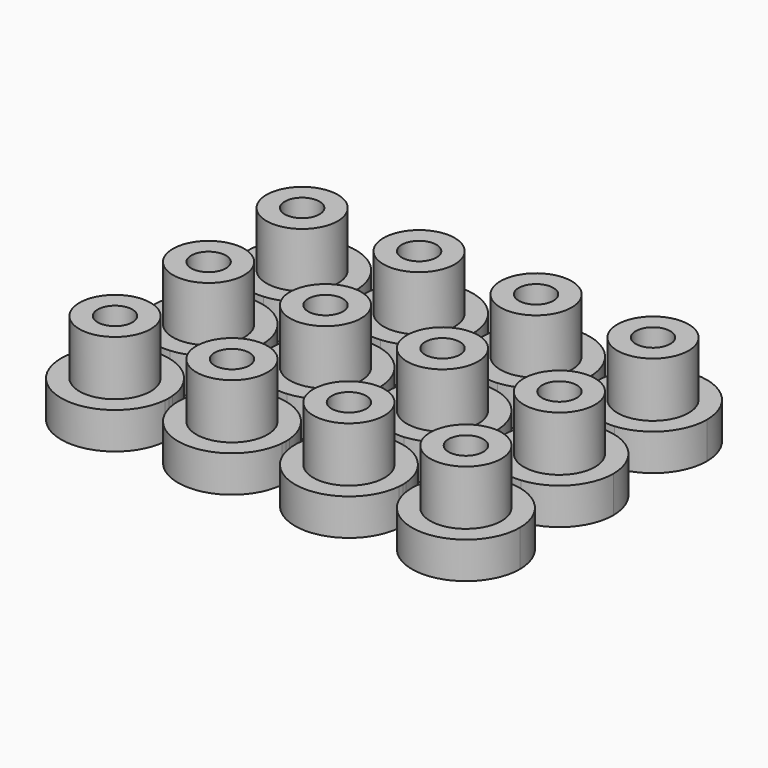
from build123d import *

# Parameters (mm, degrees)
F0_R     = 1.95
F0_R_2   = 0.95
F1_DEPTH = 5
F2_DEPTH = 2
F3_DEPTH = 0.5


with BuildPart() as f1:
    # F0 (on Top) → F1 (new body)
    with BuildSketch(Plane.XY):
        with Locations((-49.0494482219, 28.152640909)):
            Circle(F0_R)
        with Locations((-49.0494482219, 28.152640909)):
            Circle(F0_R_2, mode=Mode.SUBTRACT)
    extrude(amount=F1_DEPTH)

    # F0 (on Top) → F2 (join)
    with BuildSketch(Plane.XY):
        with BuildLine():
            ThreePointArc((-46.1094475541, 27.9099557766), (-46.1019491151, 28.0311953861), (-46.0994482219, 28.152640909))
            ThreePointArc((-46.0994482219, 28.152640909), (-46.1019491151, 28.2740864318), (-46.1094475541, 28.3953260413))
            ThreePointArc((-46.1094475541, 28.3953260413), (-46.9616557996, 30.2367768933), (-48.8016100079, 31.0922116633))
            ThreePointArc((-48.8016100079, 31.0922116633), (-49.0494482219, 31.102640909), (-49.297286436, 31.0922116633))
            ThreePointArc((-49.297286436, 31.0922116633), (-51.1335842063, 26.0648484867), (-46.1094475541, 27.9099557766))
        make_face()
        with Locations((-49.0494482219, 28.152640909)):
            Circle(F0_R, mode=Mode.SUBTRACT)
        with Locations((-49.0494482219, 28.152640909)):
            Circle(F0_R_2)
    extrude(amount=F2_DEPTH)



with BuildPart() as f1b:
    # F0 (on Top) → F1, piece 2 (new body)
    with BuildSketch(Plane.XY):
        with Locations((-42.6494482219, 28.152640909)):
            Circle(F0_R)
        with Locations((-42.6494482219, 28.152640909)):
            Circle(F0_R_2, mode=Mode.SUBTRACT)
    extrude(amount=F1_DEPTH)

    # F0 (on Top) → F2, piece 6 (join)
    with BuildSketch(Plane.XY):
        with BuildLine():
            ThreePointArc((-42.897286436, 31.0922116633), (-44.7372406442, 30.2367768933), (-45.5894488897, 28.3953260413))
            ThreePointArc((-45.5894488897, 28.3953260413), (-45.5994482219, 28.152640909), (-45.5894488897, 27.9099557766))
            ThreePointArc((-45.5894488897, 27.9099557766), (-42.6494482219, 25.202640909), (-39.7094475541, 27.9099557766))
            ThreePointArc((-39.7094475541, 27.9099557766), (-39.7019491151, 28.0311953861), (-39.6994482219, 28.152640909))
            ThreePointArc((-39.6994482219, 28.152640909), (-39.7019491151, 28.2740864318), (-39.7094475541, 28.3953260413))
            ThreePointArc((-39.7094475541, 28.3953260413), (-40.5616557996, 30.2367768933), (-42.4016100079, 31.0922116633))
            ThreePointArc((-42.4016100079, 31.0922116633), (-42.6494482219, 31.102640909), (-42.897286436, 31.0922116633))
        make_face()
        with Locations((-42.6494482219, 28.152640909)):
            Circle(F0_R, mode=Mode.SUBTRACT)
        with Locations((-42.6494482219, 28.152640909)):
            Circle(F0_R_2)
    extrude(amount=F2_DEPTH)


with BuildPart() as f1c:
    # F0 (on Top) → F1, piece 3 (new body)
    with BuildSketch(Plane.XY):
        with Locations((-36.2494482219, 28.152640909)):
            Circle(F0_R)
        with Locations((-36.2494482219, 28.152640909)):
            Circle(F0_R_2, mode=Mode.SUBTRACT)
    extrude(amount=F1_DEPTH)

    # F0 (on Top) → F2, piece 7 (join)
    with BuildSketch(Plane.XY):
        with BuildLine():
            ThreePointArc((-39.1894488897, 28.3953260413), (-39.1994482219, 28.152640909), (-39.1894488897, 27.9099557766))
            ThreePointArc((-39.1894488897, 27.9099557766), (-36.2494482219, 25.202640909), (-33.3094475541, 27.9099557766))
            ThreePointArc((-33.3094475541, 27.9099557766), (-33.3019491151, 28.0311953861), (-33.2994482219, 28.152640909))
            ThreePointArc((-33.2994482219, 28.152640909), (-33.3019491151, 28.2740864318), (-33.3094475541, 28.3953260413))
            ThreePointArc((-33.3094475541, 28.3953260413), (-34.1616557996, 30.2367768933), (-36.0016100079, 31.0922116633))
            ThreePointArc((-36.0016100079, 31.0922116633), (-36.2494482219, 31.102640909), (-36.497286436, 31.0922116633))
            ThreePointArc((-36.497286436, 31.0922116633), (-38.3372406442, 30.2367768933), (-39.1894488897, 28.3953260413))
        make_face()
        with Locations((-36.2494482219, 28.152640909)):
            Circle(F0_R, mode=Mode.SUBTRACT)
        with Locations((-36.2494482219, 28.152640909)):
            Circle(F0_R_2)
    extrude(amount=F2_DEPTH)


with BuildPart() as f1d:
    # F0 (on Top) → F1, piece 4 (new body)
    with BuildSketch(Plane.XY):
        with Locations((-49.0494482219, 34.552640909)):
            Circle(F0_R)
        with Locations((-49.0494482219, 34.552640909)):
            Circle(F0_R_2, mode=Mode.SUBTRACT)
    extrude(amount=F1_DEPTH)

    # F0 (on Top) → F2, piece 2 (join)
    with BuildSketch(Plane.XY):
        with BuildLine():
            ThreePointArc((-49.297286436, 31.6130701546), (-49.0494482219, 31.602640909), (-48.8016100079, 31.6130701546))
            ThreePointArc((-48.8016100079, 31.6130701546), (-46.9616557996, 32.4685049246), (-46.1094475541, 34.3099557766))
            ThreePointArc((-46.1094475541, 34.3099557766), (-46.1019491151, 34.4311953861), (-46.0994482219, 34.552640909))
            ThreePointArc((-46.0994482219, 34.552640909), (-46.1019491151, 34.6740864318), (-46.1094475541, 34.7953260413))
            ThreePointArc((-46.1094475541, 34.7953260413), (-46.9616557996, 36.6367768933), (-48.8016100079, 37.4922116633))
            ThreePointArc((-48.8016100079, 37.4922116633), (-49.0494482219, 37.502640909), (-49.297286436, 37.4922116633))
            ThreePointArc((-49.297286436, 37.4922116633), (-51.9994482219, 34.552640909), (-49.297286436, 31.6130701546))
        make_face()
        with Locations((-49.0494482219, 34.552640909)):
            Circle(F0_R, mode=Mode.SUBTRACT)
        with Locations((-49.0494482219, 34.552640909)):
            Circle(F0_R_2)
    extrude(amount=F2_DEPTH)


with BuildPart() as f1e:
    # F0 (on Top) → F1, piece 5 (new body)
    with BuildSketch(Plane.XY):
        with Locations((-49.0494482219, 40.952640909)):
            Circle(F0_R)
        with Locations((-49.0494482219, 40.952640909)):
            Circle(F0_R_2, mode=Mode.SUBTRACT)
    extrude(amount=F1_DEPTH)

    # F0 (on Top) → F2, piece 3 (join)
    with BuildSketch(Plane.XY):
        with BuildLine():
            ThreePointArc((-46.1094475541, 41.1953260413), (-51.1335842063, 43.0404333313), (-49.297286436, 38.0130701546))
            ThreePointArc((-49.297286436, 38.0130701546), (-49.0494482219, 38.002640909), (-48.8016100079, 38.0130701546))
            ThreePointArc((-48.8016100079, 38.0130701546), (-46.9616557996, 38.8685049246), (-46.1094475541, 40.7099557766))
            ThreePointArc((-46.1094475541, 40.7099557766), (-46.1019491151, 40.8311953861), (-46.0994482219, 40.952640909))
            ThreePointArc((-46.0994482219, 40.952640909), (-46.1019491151, 41.0740864318), (-46.1094475541, 41.1953260413))
        make_face()
        with Locations((-49.0494482219, 40.952640909)):
            Circle(F0_R, mode=Mode.SUBTRACT)
        with Locations((-49.0494482219, 40.952640909)):
            Circle(F0_R_2)
    extrude(amount=F2_DEPTH)


with BuildPart() as f1f:
    # F0 (on Top) → F1, piece 6 (new body)
    with BuildSketch(Plane.XY):
        with Locations((-42.6494482219, 34.552640909)):
            Circle(F0_R)
        with Locations((-42.6494482219, 34.552640909)):
            Circle(F0_R_2, mode=Mode.SUBTRACT)
    extrude(amount=F1_DEPTH)

    # F0 (on Top) → F2, piece 5 (join)
    with BuildSketch(Plane.XY):
        with BuildLine():
            ThreePointArc((-45.5894488897, 34.3099557766), (-44.7372406442, 32.4685049246), (-42.897286436, 31.6130701546))
            ThreePointArc((-42.897286436, 31.6130701546), (-42.6494482219, 31.602640909), (-42.4016100079, 31.6130701546))
            ThreePointArc((-42.4016100079, 31.6130701546), (-40.5616557996, 32.4685049246), (-39.7094475541, 34.3099557766))
            ThreePointArc((-39.7094475541, 34.3099557766), (-39.7019491151, 34.4311953861), (-39.6994482219, 34.552640909))
            ThreePointArc((-39.6994482219, 34.552640909), (-39.7019491151, 34.6740864318), (-39.7094475541, 34.7953260413))
            ThreePointArc((-39.7094475541, 34.7953260413), (-40.5616557996, 36.6367768933), (-42.4016100079, 37.4922116633))
            ThreePointArc((-42.4016100079, 37.4922116633), (-42.6494482219, 37.502640909), (-42.897286436, 37.4922116633))
            ThreePointArc((-42.897286436, 37.4922116633), (-44.7372406442, 36.6367768933), (-45.5894488897, 34.7953260413))
            ThreePointArc((-45.5894488897, 34.7953260413), (-45.5994482219, 34.552640909), (-45.5894488897, 34.3099557766))
        make_face()
        with Locations((-42.6494482219, 34.552640909)):
            Circle(F0_R, mode=Mode.SUBTRACT)
        with Locations((-42.6494482219, 34.552640909)):
            Circle(F0_R_2)
    extrude(amount=F2_DEPTH)


with BuildPart() as f1g:
    # F0 (on Top) → F1, piece 7 (new body)
    with BuildSketch(Plane.XY):
        with Locations((-42.6494482219, 40.952640909)):
            Circle(F0_R)
        with Locations((-42.6494482219, 40.952640909)):
            Circle(F0_R_2, mode=Mode.SUBTRACT)
    extrude(amount=F1_DEPTH)

    # F0 (on Top) → F2, piece 4 (join)
    with BuildSketch(Plane.XY):
        with BuildLine():
            ThreePointArc((-39.7094475541, 41.1953260413), (-42.6494482219, 43.902640909), (-45.5894488897, 41.1953260413))
            ThreePointArc((-45.5894488897, 41.1953260413), (-45.5994482219, 40.952640909), (-45.5894488897, 40.7099557766))
            ThreePointArc((-45.5894488897, 40.7099557766), (-44.7372406442, 38.8685049246), (-42.897286436, 38.0130701546))
            ThreePointArc((-42.897286436, 38.0130701546), (-42.6494482219, 38.002640909), (-42.4016100079, 38.0130701546))
            ThreePointArc((-42.4016100079, 38.0130701546), (-40.5616557996, 38.8685049246), (-39.7094475541, 40.7099557766))
            ThreePointArc((-39.7094475541, 40.7099557766), (-39.7019491151, 40.8311953861), (-39.6994482219, 40.952640909))
            ThreePointArc((-39.6994482219, 40.952640909), (-39.7019491151, 41.0740864318), (-39.7094475541, 41.1953260413))
        make_face()
        with Locations((-42.6494482219, 40.952640909)):
            Circle(F0_R, mode=Mode.SUBTRACT)
        with Locations((-42.6494482219, 40.952640909)):
            Circle(F0_R_2)
    extrude(amount=F2_DEPTH)


with BuildPart() as f1h:
    # F0 (on Top) → F1, piece 8 (new body)
    with BuildSketch(Plane.XY):
        with Locations((-36.2494482219, 34.552640909)):
            Circle(F0_R)
        with Locations((-36.2494482219, 34.552640909)):
            Circle(F0_R_2, mode=Mode.SUBTRACT)
    extrude(amount=F1_DEPTH)

    # F0 (on Top) → F2, piece 8 (join)
    with BuildSketch(Plane.XY):
        with BuildLine():
            ThreePointArc((-39.1894488897, 34.7953260413), (-39.1994482219, 34.552640909), (-39.1894488897, 34.3099557766))
            ThreePointArc((-39.1894488897, 34.3099557766), (-38.3372406442, 32.4685049246), (-36.497286436, 31.6130701546))
            ThreePointArc((-36.497286436, 31.6130701546), (-36.2494482219, 31.602640909), (-36.0016100079, 31.6130701546))
            ThreePointArc((-36.0016100079, 31.6130701546), (-34.1616557996, 32.4685049246), (-33.3094475541, 34.3099557766))
            ThreePointArc((-33.3094475541, 34.3099557766), (-33.3019491151, 34.4311953861), (-33.2994482219, 34.552640909))
            ThreePointArc((-33.2994482219, 34.552640909), (-33.3019491151, 34.6740864318), (-33.3094475541, 34.7953260413))
            ThreePointArc((-33.3094475541, 34.7953260413), (-34.1616557996, 36.6367768933), (-36.0016100079, 37.4922116633))
            ThreePointArc((-36.0016100079, 37.4922116633), (-36.2494482219, 37.502640909), (-36.497286436, 37.4922116633))
            ThreePointArc((-36.497286436, 37.4922116633), (-38.3372406442, 36.6367768933), (-39.1894488897, 34.7953260413))
        make_face()
        with Locations((-36.2494482219, 34.552640909)):
            Circle(F0_R, mode=Mode.SUBTRACT)
        with Locations((-36.2494482219, 34.552640909)):
            Circle(F0_R_2)
    extrude(amount=F2_DEPTH)


with BuildPart() as f1i:
    # F0 (on Top) → F1, piece 9 (new body)
    with BuildSketch(Plane.XY):
        with Locations((-36.2494482219, 40.952640909)):
            Circle(F0_R)
        with Locations((-36.2494482219, 40.952640909)):
            Circle(F0_R_2, mode=Mode.SUBTRACT)
    extrude(amount=F1_DEPTH)

    # F0 (on Top) → F2, piece 9 (join)
    with BuildSketch(Plane.XY):
        with BuildLine():
            ThreePointArc((-33.3094475541, 41.1953260413), (-36.2494482219, 43.902640909), (-39.1894488897, 41.1953260413))
            ThreePointArc((-39.1894488897, 41.1953260413), (-39.1994482219, 40.952640909), (-39.1894488897, 40.7099557766))
            ThreePointArc((-39.1894488897, 40.7099557766), (-38.3372406442, 38.8685049246), (-36.497286436, 38.0130701546))
            ThreePointArc((-36.497286436, 38.0130701546), (-36.2494482219, 38.002640909), (-36.0016100079, 38.0130701546))
            ThreePointArc((-36.0016100079, 38.0130701546), (-34.1616557996, 38.8685049246), (-33.3094475541, 40.7099557766))
            ThreePointArc((-33.3094475541, 40.7099557766), (-33.3019491151, 40.8311953861), (-33.2994482219, 40.952640909))
            ThreePointArc((-33.2994482219, 40.952640909), (-33.3019491151, 41.0740864318), (-33.3094475541, 41.1953260413))
        make_face()
        with Locations((-36.2494482219, 40.952640909)):
            Circle(F0_R, mode=Mode.SUBTRACT)
        with Locations((-36.2494482219, 40.952640909)):
            Circle(F0_R_2)
    extrude(amount=F2_DEPTH)


with BuildPart() as f1j:
    # F0 (on Top) → F1, piece 10 (new body)
    with BuildSketch(Plane.XY):
        with Locations((-29.8494482219, 40.952640909)):
            Circle(F0_R)
        with Locations((-29.8494482219, 40.952640909)):
            Circle(F0_R_2, mode=Mode.SUBTRACT)
    extrude(amount=F1_DEPTH)

    # F0 (on Top) → F2, piece 10 (join)
    with BuildSketch(Plane.XY):
        with BuildLine():
            ThreePointArc((-26.8994482219, 40.952640909), (-29.728002699, 43.9001400158), (-32.7894488897, 41.1953260413))
            ThreePointArc((-32.7894488897, 41.1953260413), (-32.7994482219, 40.952640909), (-32.7894488897, 40.7099557766))
            ThreePointArc((-32.7894488897, 40.7099557766), (-31.9372406442, 38.8685049246), (-30.097286436, 38.0130701546))
            ThreePointArc((-30.097286436, 38.0130701546), (-29.8494482219, 38.002640909), (-29.6016100079, 38.0130701546))
            ThreePointArc((-29.6016100079, 38.0130701546), (-27.6776260916, 38.9562219564), (-26.8994482219, 40.952640909))
        make_face()
        with Locations((-29.8494482219, 40.952640909)):
            Circle(F0_R, mode=Mode.SUBTRACT)
        with Locations((-29.8494482219, 40.952640909)):
            Circle(F0_R_2)
    extrude(amount=F2_DEPTH)


with BuildPart() as f1k:
    # F0 (on Top) → F1, piece 11 (new body)
    with BuildSketch(Plane.XY):
        with Locations((-29.8494482219, 34.552640909)):
            Circle(F0_R)
        with Locations((-29.8494482219, 34.552640909)):
            Circle(F0_R_2, mode=Mode.SUBTRACT)
    extrude(amount=F1_DEPTH)

    # F0 (on Top) → F2, piece 11 (join)
    with BuildSketch(Plane.XY):
        with BuildLine():
            ThreePointArc((-32.7894488897, 34.3099557766), (-31.9372406442, 32.4685049246), (-30.097286436, 31.6130701546))
            ThreePointArc((-30.097286436, 31.6130701546), (-29.8494482219, 31.602640909), (-29.6016100079, 31.6130701546))
            ThreePointArc((-29.6016100079, 31.6130701546), (-27.6776260916, 32.5562219564), (-26.8994482219, 34.552640909))
            ThreePointArc((-26.8994482219, 34.552640909), (-27.6776260916, 36.5490598616), (-29.6016100079, 37.4922116633))
            ThreePointArc((-29.6016100079, 37.4922116633), (-29.8494482219, 37.502640909), (-30.097286436, 37.4922116633))
            ThreePointArc((-30.097286436, 37.4922116633), (-31.9372406442, 36.6367768933), (-32.7894488897, 34.7953260413))
            ThreePointArc((-32.7894488897, 34.7953260413), (-32.7994482219, 34.552640909), (-32.7894488897, 34.3099557766))
        make_face()
        with Locations((-29.8494482219, 34.552640909)):
            Circle(F0_R, mode=Mode.SUBTRACT)
        with Locations((-29.8494482219, 34.552640909)):
            Circle(F0_R_2)
    extrude(amount=F2_DEPTH)


with BuildPart() as f1l:
    # F0 (on Top) → F1, piece 12 (new body)
    with BuildSketch(Plane.XY):
        with Locations((-29.8494482219, 28.152640909)):
            Circle(F0_R)
        with Locations((-29.8494482219, 28.152640909)):
            Circle(F0_R_2, mode=Mode.SUBTRACT)
    extrude(amount=F1_DEPTH)

    # F0 (on Top) → F2, piece 12 (join)
    with BuildSketch(Plane.XY):
        with BuildLine():
            ThreePointArc((-32.7894488897, 28.3953260413), (-32.7994482219, 28.152640909), (-32.7894488897, 27.9099557766))
            ThreePointArc((-32.7894488897, 27.9099557766), (-29.728002699, 25.2051418021), (-26.8994482219, 28.152640909))
            ThreePointArc((-26.8994482219, 28.152640909), (-27.6776260916, 30.1490598616), (-29.6016100079, 31.0922116633))
            ThreePointArc((-29.6016100079, 31.0922116633), (-29.8494482219, 31.102640909), (-30.097286436, 31.0922116633))
            ThreePointArc((-30.097286436, 31.0922116633), (-31.9372406442, 30.2367768933), (-32.7894488897, 28.3953260413))
        make_face()
        with Locations((-29.8494482219, 28.152640909)):
            Circle(F0_R, mode=Mode.SUBTRACT)
        with Locations((-29.8494482219, 28.152640909)):
            Circle(F0_R_2)
    extrude(amount=F2_DEPTH)


with BuildPart() as f1_1:
    add(f1.part)

    add(f1b.part)  # F3 merges F1b

    add(f1c.part)  # F3 merges F1c

    add(f1d.part)  # F3 merges F1d

    add(f1e.part)  # F3 merges F1e

    add(f1f.part)  # F3 merges F1f

    add(f1g.part)  # F3 merges F1g

    add(f1h.part)  # F3 merges F1h

    add(f1i.part)  # F3 merges F1i

    add(f1j.part)  # F3 merges F1j

    add(f1k.part)  # F3 merges F1k

    add(f1l.part)  # F3 merges F1l
    # F0 (on Top) → F3 (join)
    with BuildSketch(Plane.XY):
        with BuildLine():
            ThreePointArc((-46.1094475541, 28.3953260413), (-46.1019491151, 28.2740864318), (-46.0994482219, 28.152640909))
            ThreePointArc((-46.0994482219, 28.152640909), (-46.1019491151, 28.0311953861), (-46.1094475541, 27.9099557766))
            Line((-46.1094475541, 27.9099557766), (-45.5894488897, 27.9099557766))
            ThreePointArc((-45.5894488897, 27.9099557766), (-45.5994482219, 28.152640909), (-45.5894488897, 28.3953260413))
            Line((-45.5894488897, 28.3953260413), (-46.1094475541, 28.3953260413))
        make_face()
        with BuildLine():
            ThreePointArc((-39.6994482219, 28.152640909), (-39.7019491151, 28.0311953861), (-39.7094475541, 27.9099557766))
            Line((-39.7094475541, 27.9099557766), (-39.1894488897, 27.9099557766))
            ThreePointArc((-39.1894488897, 27.9099557766), (-39.1994482219, 28.152640909), (-39.1894488897, 28.3953260413))
            Line((-39.1894488897, 28.3953260413), (-39.7094475541, 28.3953260413))
            ThreePointArc((-39.7094475541, 28.3953260413), (-39.7019491151, 28.2740864318), (-39.6994482219, 28.152640909))
        make_face()
        with BuildLine():
            ThreePointArc((-33.2994482219, 28.152640909), (-33.3019491151, 28.0311953861), (-33.3094475541, 27.9099557766))
            Line((-33.3094475541, 27.9099557766), (-32.7894488897, 27.9099557766))
            ThreePointArc((-32.7894488897, 27.9099557766), (-32.7994482219, 28.152640909), (-32.7894488897, 28.3953260413))
            Line((-32.7894488897, 28.3953260413), (-33.3094475541, 28.3953260413))
            ThreePointArc((-33.3094475541, 28.3953260413), (-33.3019491151, 28.2740864318), (-33.2994482219, 28.152640909))
        make_face()
        with BuildLine():
            ThreePointArc((-33.2994482219, 34.552640909), (-33.3019491151, 34.4311953861), (-33.3094475541, 34.3099557766))
            Line((-33.3094475541, 34.3099557766), (-32.7894488897, 34.3099557766))
            ThreePointArc((-32.7894488897, 34.3099557766), (-32.7994482219, 34.552640909), (-32.7894488897, 34.7953260413))
            Line((-32.7894488897, 34.7953260413), (-33.3094475541, 34.7953260413))
            ThreePointArc((-33.3094475541, 34.7953260413), (-33.3019491151, 34.6740864318), (-33.2994482219, 34.552640909))
        make_face()
        with BuildLine():
            Line((-30.097286436, 31.6130701546), (-30.097286436, 31.0922116633))
            ThreePointArc((-30.097286436, 31.0922116633), (-29.8494482219, 31.102640909), (-29.6016100079, 31.0922116633))
            Line((-29.6016100079, 31.0922116633), (-29.6016100079, 31.6130701546))
            ThreePointArc((-29.6016100079, 31.6130701546), (-29.8494482219, 31.602640909), (-30.097286436, 31.6130701546))
        make_face()
        with BuildLine():
            Line((-36.497286436, 31.6130701546), (-36.497286436, 31.0922116633))
            ThreePointArc((-36.497286436, 31.0922116633), (-36.2494482219, 31.102640909), (-36.0016100079, 31.0922116633))
            Line((-36.0016100079, 31.0922116633), (-36.0016100079, 31.6130701546))
            ThreePointArc((-36.0016100079, 31.6130701546), (-36.2494482219, 31.602640909), (-36.497286436, 31.6130701546))
        make_face()
        with BuildLine():
            Line((-42.897286436, 31.6130701546), (-42.897286436, 31.0922116633))
            ThreePointArc((-42.897286436, 31.0922116633), (-42.6494482219, 31.102640909), (-42.4016100079, 31.0922116633))
            Line((-42.4016100079, 31.0922116633), (-42.4016100079, 31.6130701546))
            ThreePointArc((-42.4016100079, 31.6130701546), (-42.6494482219, 31.602640909), (-42.897286436, 31.6130701546))
        make_face()
        with BuildLine():
            ThreePointArc((-49.297286436, 31.0922116633), (-49.0494482219, 31.102640909), (-48.8016100079, 31.0922116633))
            Line((-48.8016100079, 31.0922116633), (-48.8016100079, 31.6130701546))
            ThreePointArc((-48.8016100079, 31.6130701546), (-49.0494482219, 31.602640909), (-49.297286436, 31.6130701546))
            Line((-49.297286436, 31.6130701546), (-49.297286436, 31.0922116633))
        make_face()
        with BuildLine():
            Line((-49.297286436, 38.0130701546), (-49.297286436, 37.4922116633))
            ThreePointArc((-49.297286436, 37.4922116633), (-49.0494482219, 37.502640909), (-48.8016100079, 37.4922116633))
            Line((-48.8016100079, 37.4922116633), (-48.8016100079, 38.0130701546))
            ThreePointArc((-48.8016100079, 38.0130701546), (-49.0494482219, 38.002640909), (-49.297286436, 38.0130701546))
        make_face()
        with BuildLine():
            Line((-42.897286436, 38.0130701546), (-42.897286436, 37.4922116633))
            ThreePointArc((-42.897286436, 37.4922116633), (-42.6494482219, 37.502640909), (-42.4016100079, 37.4922116633))
            Line((-42.4016100079, 37.4922116633), (-42.4016100079, 38.0130701546))
            ThreePointArc((-42.4016100079, 38.0130701546), (-42.6494482219, 38.002640909), (-42.897286436, 38.0130701546))
        make_face()
        with BuildLine():
            Line((-45.5894488897, 41.1953260413), (-46.1094475541, 41.1953260413))
            ThreePointArc((-46.1094475541, 41.1953260413), (-46.1019491151, 41.0740864318), (-46.0994482219, 40.952640909))
            ThreePointArc((-46.0994482219, 40.952640909), (-46.1019491151, 40.8311953861), (-46.1094475541, 40.7099557766))
            Line((-46.1094475541, 40.7099557766), (-45.5894488897, 40.7099557766))
            ThreePointArc((-45.5894488897, 40.7099557766), (-45.5994482219, 40.952640909), (-45.5894488897, 41.1953260413))
        make_face()
        with BuildLine():
            ThreePointArc((-46.0994482219, 34.552640909), (-46.1019491151, 34.4311953861), (-46.1094475541, 34.3099557766))
            Line((-46.1094475541, 34.3099557766), (-45.5894488897, 34.3099557766))
            ThreePointArc((-45.5894488897, 34.3099557766), (-45.5994482219, 34.552640909), (-45.5894488897, 34.7953260413))
            Line((-45.5894488897, 34.7953260413), (-46.1094475541, 34.7953260413))
            ThreePointArc((-46.1094475541, 34.7953260413), (-46.1019491151, 34.6740864318), (-46.0994482219, 34.552640909))
        make_face()
        with BuildLine():
            ThreePointArc((-39.6994482219, 34.552640909), (-39.7019491151, 34.4311953861), (-39.7094475541, 34.3099557766))
            Line((-39.7094475541, 34.3099557766), (-39.1894488897, 34.3099557766))
            ThreePointArc((-39.1894488897, 34.3099557766), (-39.1994482219, 34.552640909), (-39.1894488897, 34.7953260413))
            Line((-39.1894488897, 34.7953260413), (-39.7094475541, 34.7953260413))
            ThreePointArc((-39.7094475541, 34.7953260413), (-39.7019491151, 34.6740864318), (-39.6994482219, 34.552640909))
        make_face()
        with BuildLine():
            Line((-39.1894488897, 41.1953260413), (-39.7094475541, 41.1953260413))
            ThreePointArc((-39.7094475541, 41.1953260413), (-39.7019491151, 41.0740864318), (-39.6994482219, 40.952640909))
            ThreePointArc((-39.6994482219, 40.952640909), (-39.7019491151, 40.8311953861), (-39.7094475541, 40.7099557766))
            Line((-39.7094475541, 40.7099557766), (-39.1894488897, 40.7099557766))
            ThreePointArc((-39.1894488897, 40.7099557766), (-39.1994482219, 40.952640909), (-39.1894488897, 41.1953260413))
        make_face()
        with BuildLine():
            Line((-36.497286436, 38.0130701546), (-36.497286436, 37.4922116633))
            ThreePointArc((-36.497286436, 37.4922116633), (-36.2494482219, 37.502640909), (-36.0016100079, 37.4922116633))
            Line((-36.0016100079, 37.4922116633), (-36.0016100079, 38.0130701546))
            ThreePointArc((-36.0016100079, 38.0130701546), (-36.2494482219, 38.002640909), (-36.497286436, 38.0130701546))
        make_face()
        with BuildLine():
            Line((-32.7894488897, 41.1953260413), (-33.3094475541, 41.1953260413))
            ThreePointArc((-33.3094475541, 41.1953260413), (-33.3019491151, 41.0740864318), (-33.2994482219, 40.952640909))
            ThreePointArc((-33.2994482219, 40.952640909), (-33.3019491151, 40.8311953861), (-33.3094475541, 40.7099557766))
            Line((-33.3094475541, 40.7099557766), (-32.7894488897, 40.7099557766))
            ThreePointArc((-32.7894488897, 40.7099557766), (-32.7994482219, 40.952640909), (-32.7894488897, 41.1953260413))
        make_face()
        with BuildLine():
            ThreePointArc((-30.097286436, 37.4922116633), (-29.8494482219, 37.502640909), (-29.6016100079, 37.4922116633))
            Line((-29.6016100079, 37.4922116633), (-29.6016100079, 38.0130701546))
            ThreePointArc((-29.6016100079, 38.0130701546), (-29.8494482219, 38.002640909), (-30.097286436, 38.0130701546))
            Line((-30.097286436, 38.0130701546), (-30.097286436, 37.4922116633))
        make_face()
    extrude(amount=F3_DEPTH)


solid = f1_1.part
